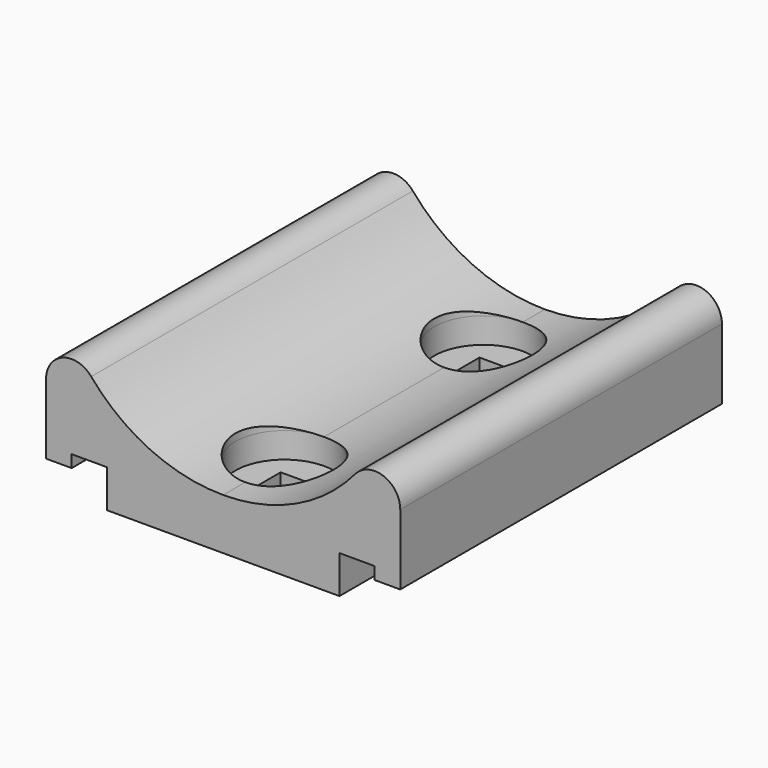
from build123d import *

# Parameters (mm, degrees)
F1_DEPTH      = 49.8856
F2_W          = 4.8768
F2_H          = 4.8768
F3_DEPTH      = 25.4
F3_DEPTH_BACK = 25.4
F2_R          = 6.096
F4_DEPTH      = 8.7386
F4_DEPTH_BACK = 3.175


with BuildPart() as f1:
    # F0 (on Front) → F1 (new body)
    with BuildSketch(Plane.XZ):
        with BuildLine():
            Line((-21.971, 5.567192), (-21.971, -3.175))
            Line((-21.971, -3.175), (-18.796, -3.175))
            Line((-18.796, -3.175), (-18.796, -1.651))
            Line((-18.796, -1.651), (-14.4272, -1.651))
            Line((-14.4272, -1.651), (-14.4272, -6.35))
            Line((-14.4272, -6.35), (0, -6.35))
            Line((0, -6.35), (14.4272, -6.35))
            Line((14.4272, -6.35), (14.4272, -1.651))
            Line((14.4272, -1.651), (18.796, -1.651))
            Line((18.796, -1.651), (18.796, -3.175))
            Line((18.796, -3.175), (21.971, -3.175))
            Line((21.971, -3.175), (21.971, 5.567192))
            ThreePointArc((21.971, 5.567192), (19.888745, 8.545012), (16.37714, 7.611298))
            ThreePointArc((16.37714, 7.611298), (9.029709, 1.99578), (0, 0))
            ThreePointArc((0, 0), (-9.029709, 1.99578), (-16.37714, 7.611298))
            ThreePointArc((-16.37714, 7.611298), (-19.888745, 8.545012), (-21.971, 5.567192))
        make_face()
    extrude(amount=F1_DEPTH)

    # F2 (on Top) → F3 (cut, two sides)
    with BuildSketch(Plane.XY) as f3_sk:
        with Locations((0, -9.525)):
            Rectangle(F2_W, F2_H)
        with Locations((0, -40.3606)):
            Rectangle(F2_W, F2_H)
    extrude(amount=F3_DEPTH, mode=Mode.SUBTRACT)
    extrude(f3_sk.sketch, amount=-F3_DEPTH_BACK, mode=Mode.SUBTRACT)

    # F2 (on Top) → F4 (cut, two sides)
    with BuildSketch(Plane.XY) as f4_sk:
        with Locations((0, -40.3606)):
            Circle(F2_R)
        with Locations((0, -40.3606)):
            Rectangle(F2_W, F2_H, mode=Mode.SUBTRACT)
        with Locations((0, -9.525)):
            Circle(F2_R)
        with Locations((0, -9.525)):
            Rectangle(F2_W, F2_H, mode=Mode.SUBTRACT)
        with Locations((0, -40.3606)):
            Rectangle(F2_W, F2_H)
        with Locations((0, -9.525)):
            Rectangle(F2_W, F2_H)
    extrude(amount=F4_DEPTH, mode=Mode.SUBTRACT)
    extrude(f4_sk.sketch, amount=-F4_DEPTH_BACK, mode=Mode.SUBTRACT)


solid = f1.part
